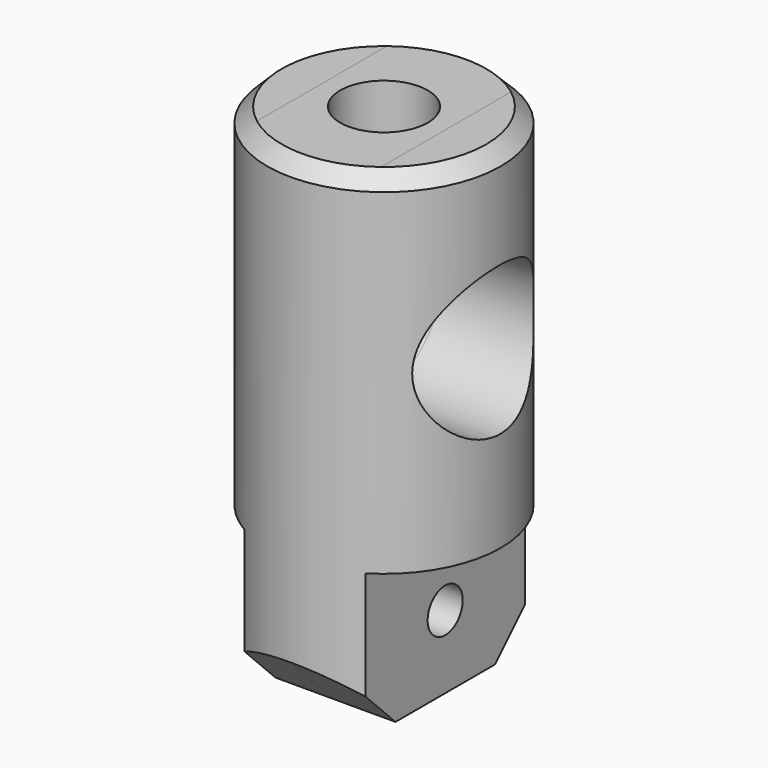
from build123d import *

# Parameters (mm, degrees)
F0_R           = 8
F1_DEPTH       = 34
F3_DEPTH       = 100
F5_DEPTH       = 8.0010001
F5_DEPTH_BACK  = 50
F7_SIZE2       = 1
F7_SIZE        = 1
F8_R           = 1.5
F9_DEPTH       = 50
F9_DEPTH_BACK  = 50
F11_DEPTH      = 50
F11_DEPTH_BACK = 50
F12_R          = 3
F13_DEPTH      = 12
F15_DEPTH      = 10
F17_DEPTH      = 10


with BuildPart() as f1:
    # F0 (on Top) → F1 (new body)
    with BuildSketch(Plane.XY):
        Circle(F0_R)
    extrude(amount=F1_DEPTH)

    # F2 (on Right) → F3 (cut)
    with BuildSketch(Plane.YZ):
        with BuildLine():
            ThreePointArc((4.5470095179, 22.0663473532), (0, 26.613356871), (-4.5470095179, 22.0663473532))
            Line((-4.5470095179, 22.0663473532), (4.5470095179, 22.0663473532))
        make_face()
        with BuildLine():
            Line((4.5470095179, 22.0663473532), (-4.5470095179, 22.0663473532))
            ThreePointArc((-4.5470095179, 22.0663473532), (0, 17.5193378353), (4.5470095179, 22.0663473532))
        make_face()
    extrude(amount=-F3_DEPTH, mode=Mode.SUBTRACT)

    # F4 (on Right) → F5 (cut, two sides)
    with BuildSketch(Plane.YZ) as f5_sk:
        with BuildLine():
            ThreePointArc((5.006999059, 21.9850950465), (-0.093000941, 27.0850950465), (-5.193000941, 21.9850950465))
            Line((-5.193000941, 21.9850950465), (5.006999059, 21.9850950465))
        make_face()
        with BuildLine():
            Line((5.006999059, 21.9850950465), (-5.193000941, 21.9850950465))
            ThreePointArc((-5.193000941, 21.9850950465), (-0.093000941, 16.8850950465), (5.006999059, 21.9850950465))
        make_face()
    extrude(amount=F5_DEPTH, mode=Mode.SUBTRACT)
    extrude(f5_sk.sketch, amount=-F5_DEPTH_BACK, mode=Mode.SUBTRACT)

    # F7
    f7_edges = [f1.edges().sort_by_distance(p)[0] for p in [
        (-8, 0, 34),
    ]]
    chamfer(f7_edges, length=F7_SIZE, length2=F7_SIZE2)

    # F8 (on Right) → F9 (cut, two sides)
    with BuildSketch(Plane.YZ) as f9_sk:
        with Locations((0, 5)):
            Circle(F8_R)
    extrude(amount=-F9_DEPTH, mode=Mode.SUBTRACT)
    extrude(f9_sk.sketch, amount=F9_DEPTH_BACK, mode=Mode.SUBTRACT)

    # F10 (on Right) → F11 (cut, two sides)
    with BuildSketch(Plane.YZ) as f11_sk:
        Polygon((8.5644535553, 4.3144535553), (4.25, 0), (8.5644535553, 0), align=None)
        Polygon((-8.5644535553, 4.3144535553), (-8.5644535553, 0), (-4.25, 0), align=None)
    extrude(amount=-F11_DEPTH, mode=Mode.SUBTRACT)
    extrude(f11_sk.sketch, amount=F11_DEPTH_BACK, mode=Mode.SUBTRACT)

    # F12 (on face) → F13 (cut)
    with BuildSketch(Plane.XY.offset(34)):
        Circle(F12_R)
    extrude(amount=-F13_DEPTH, mode=Mode.SUBTRACT)

    # F14 (on face) → F15 (cut)
    with BuildSketch(Plane.XY.offset(34)):
        Polygon((-4.25, -8.8976696134), (-4.25, 0), (-4.25, 8.1088971347), (-12.2155025601, 8.1088971347), (-12.2155025601, -9.0591032058), align=None)
        Polygon((4.25, 8.1645697355), (4.25, 0), (4.25, -8.8976696134), (9.4557348639, -8.8976696134), (9.4557348639, 8.1645697355), align=None)
    extrude(amount=F15_DEPTH, mode=Mode.SUBTRACT)

    # F16 (on Top) → F17 (cut)
    with BuildSketch(Plane.XY):
        Polygon((-8.8066291064, -8.1897312775), (-4.0295359638, -8.1897312775), (-4.0295359638, 0), (-4.0295359638, 8.8079171255), (-8.8066291064, 8.8079171255), align=None)
        Polygon((4.1875811294, 0), (4.1875811294, -9.2414822429), (9.3784797937, -9.2414822429), (9.3784797937, 8.8079171255), (4.1875811294, 8.8079171255), align=None)
    extrude(amount=F17_DEPTH, mode=Mode.SUBTRACT)


solid = f1.part
